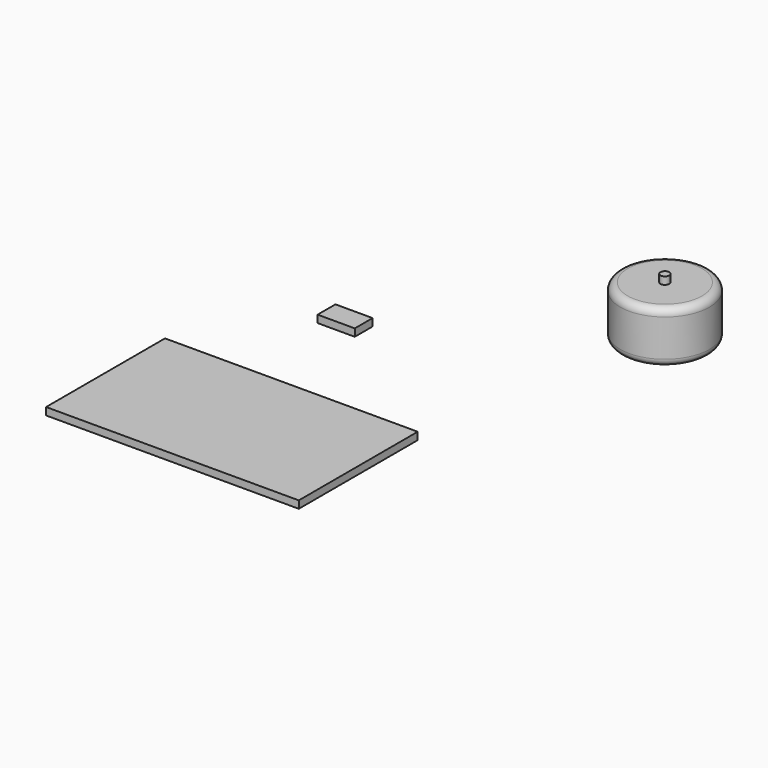
from build123d import *

# Parameters (mm, degrees)
F0_W     = 170
F0_H     = 100
F1_DEPTH = 5
F2_R     = 30
F3_DEPTH = 35
F4_R     = 5
F5_R     = 3
F6_DEPTH = 5
F7_W     = 25
F7_H     = 15
F8_DEPTH = 5


with BuildPart() as f1:
    # F0 (on Top) → F1 (new body)
    with BuildSketch(Plane.XY):
        with Locations((-236.83264, 25.981316)):
            Rectangle(F0_W, F0_H)
    extrude(amount=F1_DEPTH)


with BuildPart() as f3:
    # F2 (on Top) → F3 (new body)
    with BuildSketch(Plane.XY):
        with Locations((-120.671019, 244.884789)):
            Circle(F2_R)
    extrude(amount=F3_DEPTH)

    # F4
    f4_edges = [f3.edges().sort_by_distance(p)[0] for p in [
        (-150.671019, 244.884789, 35),
        (-90.671019, 244.884789, 17.5),
        (-150.671019, 244.884789, 0),
    ]]
    fillet(f4_edges, radius=F4_R)

    # F5 (on face) → F6 (join)
    with BuildSketch(Plane.XY.offset(35)):
        with Locations((-120.671019, 244.884789)):
            Circle(F5_R)
    extrude(amount=F6_DEPTH)


with BuildPart() as f8:
    # F7 (on Top) → F8 (new body)
    with BuildSketch(Plane.XY):
        with Locations((-263.604499, 154.634513)):
            Rectangle(F7_W, F7_H)
    extrude(amount=F8_DEPTH)


solid = Compound([f1.part, f3.part, f8.part])
